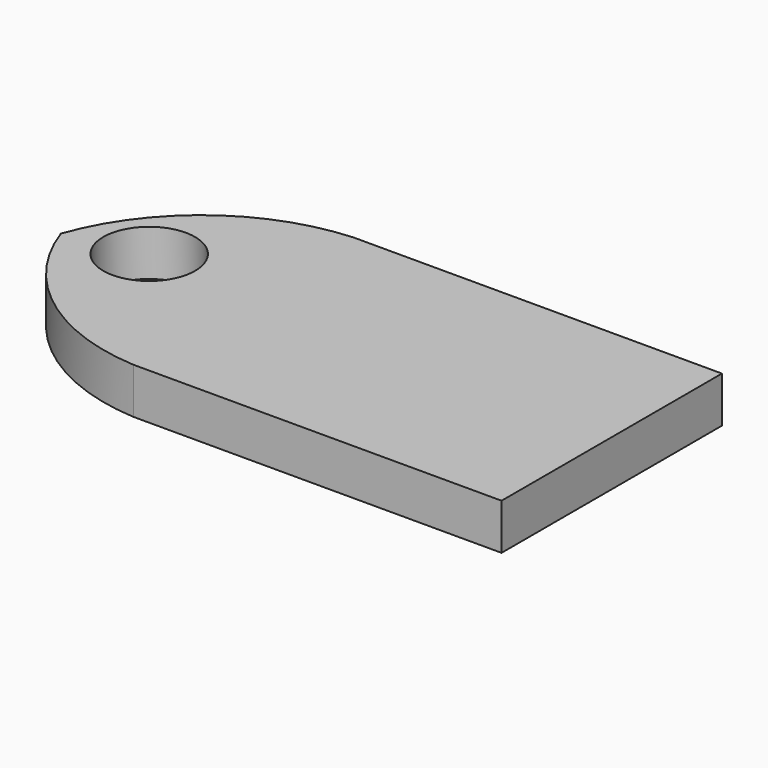
from build123d import *

# Parameters (mm, degrees)
F0_W     = 38.1
F0_H     = 19.05
F1_DEPTH = 3.175
F3_DEPTH = 3.176
F5_D     = 6.35


with BuildPart() as f1:
    # F0 (on Top) → F1 (new body)
    with BuildSketch(Plane.XY):
        with Locations((-19.05, 9.525)):
            Rectangle(F0_W, F0_H)
    extrude(amount=F1_DEPTH)

    # F2 (on face) → F3 (cut, through all)
    with BuildSketch(Plane.XY.offset(3.175)):
        with BuildLine():
            ThreePointArc((-38.1, 9.525), (-33.220058, 16.193908), (-25.465647, 19.05))
            Line((-25.465647, 19.05), (-38.1, 19.05))
            Line((-38.1, 19.05), (-38.1, 9.525))
        make_face()
        with BuildLine():
            ThreePointArc((-25.465647, 0), (-33.220058, 2.856092), (-38.1, 9.525))
            Line((-38.1, 9.525), (-38.1, 0))
            Line((-38.1, 0), (-25.465647, 0))
        make_face()
    extrude(amount=-F3_DEPTH, mode=Mode.SUBTRACT)

    # F5 (through all)
    with Locations(Plane.XY.offset(3.175)):
        with Locations((-32.890055, 10.653644)):
            Hole(F5_D / 2)


solid = f1.part
